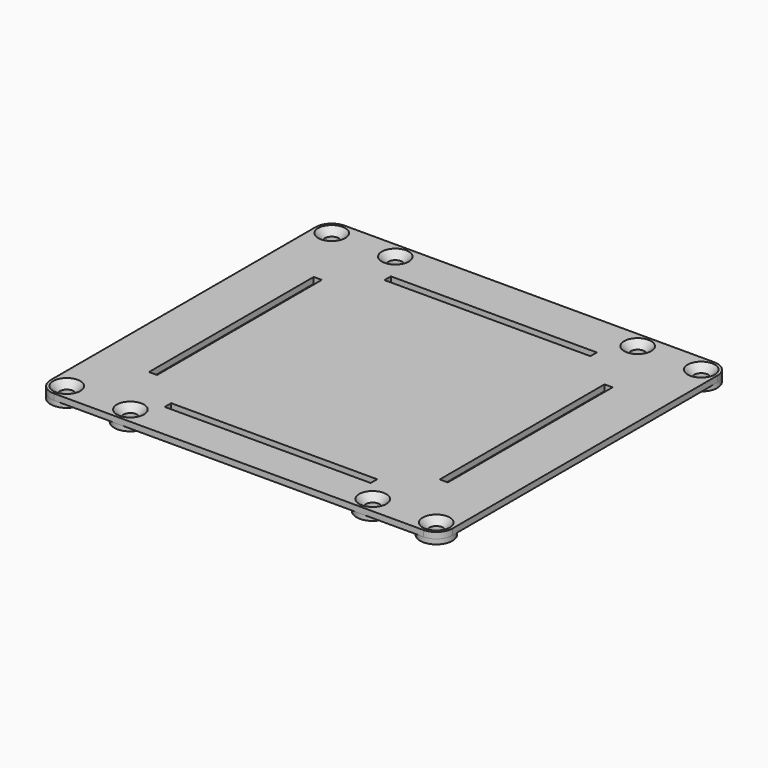
from build123d import *

# Parameters (mm, degrees)
SKETCH043_W             = 51
SKETCH043_H             = 2
SKETCH043_W_2           = 2
SKETCH043_H_2           = 51
PAD026_DEPTH            = 1.5
SKETCH044_R             = 4
SKETCH044_R_2           = 1.6
PAD027_DEPTH            = 2.7
HOLE001_D               = 3.4
HOLE001_DEPTH           = 25
HOLE001_CSINK_D         = 6.7
HOLE001_CSINK_ANGLE     = 90
BODY011_PLACEMENT_ANGLE = 180


with BuildPart() as part:
    # Sketch043 → Pad026 (new body)
    with BuildSketch(Plane.XY):
        with BuildLine():
            Line((-49.75, 40), (-49.75, -42))
            ThreePointArc((-49.75, -42), (-48.578427, -44.828427), (-45.75, -46))
            Line((-45.75, -46), (45.75, -46))
            ThreePointArc((45.75, -46), (48.578427, -44.828427), (49.75, -42))
            Line((49.75, -42), (49.75, 40))
            ThreePointArc((49.75, 40), (48.578427, 42.828427), (45.75, 44))
            Line((45.75, 44), (-45.75, 44))
            ThreePointArc((-45.75, 44), (-48.578427, 42.828427), (-49.75, 40))
        make_face()
        with Locations((0, 34)):
            Rectangle(SKETCH043_W, SKETCH043_H, mode=Mode.SUBTRACT)
        with Locations((0, -34)):
            Rectangle(SKETCH043_W, SKETCH043_H, mode=Mode.SUBTRACT)
        with Locations((36, 0)):
            Rectangle(SKETCH043_W_2, SKETCH043_H_2, mode=Mode.SUBTRACT)
        with Locations((-36, 0)):
            Rectangle(SKETCH043_W_2, SKETCH043_H_2, mode=Mode.SUBTRACT)
    extrude(amount=PAD026_DEPTH)

    # Sketch044 → Pad027 (join)
    with BuildSketch(Plane.XY):
        with Locations((-45.75, 40)):
            Circle(SKETCH044_R)
        with Locations((-45.75, 40)):
            Circle(SKETCH044_R_2, mode=Mode.SUBTRACT)
        with Locations((-30, 40)):
            Circle(SKETCH044_R)
        with Locations((-30, 40)):
            Circle(SKETCH044_R_2, mode=Mode.SUBTRACT)
        with Locations((30, 40)):
            Circle(SKETCH044_R)
        with Locations((30, 40)):
            Circle(SKETCH044_R_2, mode=Mode.SUBTRACT)
        with Locations((30, -42)):
            Circle(SKETCH044_R)
        with Locations((30, -42)):
            Circle(SKETCH044_R_2, mode=Mode.SUBTRACT)
        with Locations((-30, -42)):
            Circle(SKETCH044_R)
        with Locations((-30, -42)):
            Circle(SKETCH044_R_2, mode=Mode.SUBTRACT)
        with Locations((-45.75, -42)):
            Circle(SKETCH044_R)
        with Locations((-45.75, -42)):
            Circle(SKETCH044_R_2, mode=Mode.SUBTRACT)
        with Locations((45.75, -42)):
            Circle(SKETCH044_R)
        with Locations((45.75, -42)):
            Circle(SKETCH044_R_2, mode=Mode.SUBTRACT)
        with Locations((45.75, 40)):
            Circle(SKETCH044_R)
        with Locations((45.75, 40)):
            Circle(SKETCH044_R_2, mode=Mode.SUBTRACT)
    extrude(amount=PAD027_DEPTH)

    # Hole001
    with Locations(Plane(origin=(0, 0, 0), x_dir=(1, 0, 0), z_dir=(0, 0, -1))):
        with Locations((-45.75, -40), (-30, -40), (30, -40), (30, 42), (-30, 42), (-45.75, 42), (-45.75, 42), (-30, 42), (30, 42), (30, -40), (-30, -40), (-45.75, -40), (45.75, 42), (45.75, 42), (45.75, -40), (45.75, -40)):
            CounterSinkHole(HOLE001_D / 2, HOLE001_CSINK_D / 2, depth=HOLE001_DEPTH, counter_sink_angle=HOLE001_CSINK_ANGLE)


with BuildPart() as part_1:
    # Body011 placement: moved
    add(part.part.moved(Location((0, -1.8, 71.3))).rotate(Axis((0, -1.8, 71.3), (1, 0, 0)), BODY011_PLACEMENT_ANGLE))


solid = part_1.part
